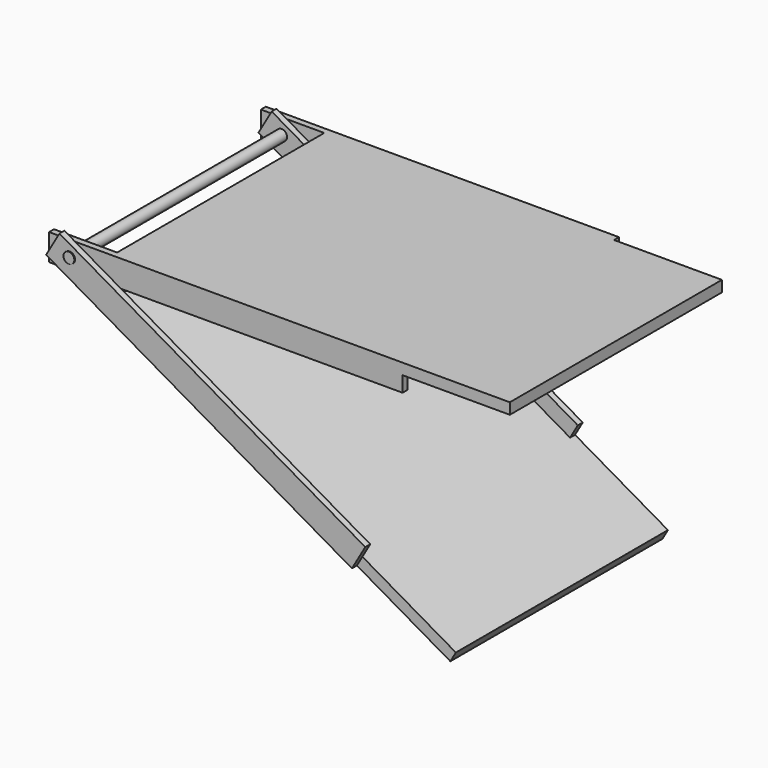
from build123d import *

# Parameters (mm, degrees)
F0_W      = 114.3
F0_H      = 76.2
F1_DEPTH  = 3.175
F2_W      = 101.6
F2_H      = 7.62
F3_DEPTH  = 1.778
F4_W      = 101.5104893595
F4_H      = 7.6689536601
F5_DEPTH  = 1.778
F9_ANGLE  = -180
F10_ANGLE = -30
F12_R     = 1.5586262829
F13_DEPTH = 80.264


with BuildPart() as f1:
    # F0 (on Top) → F1 (new body)
    with BuildSketch(Plane.XY):
        with Locations((57.15, 38.1)):
            Rectangle(F0_W, F0_H)
    extrude(amount=F1_DEPTH)

    # F2 (on face) → F3 (join)
    with BuildSketch(Plane.XZ):
        with Locations((32.6633335471, -0.635)):
            Rectangle(F2_W, F2_H)
    extrude(amount=-F3_DEPTH)

    # F4 (on face) → F5 (join)
    with BuildSketch(Plane(origin=(0, 76.2, 0), x_dir=(-1, 0, 0), z_dir=(0, 1, 0))):
        with Locations((-32.5318602845, -0.6594768301)):
            Rectangle(F4_W, F4_H)
    extrude(amount=F5_DEPTH)


with BuildPart() as f1_1:
    # F6: moved
    add(f1.part)


with BuildPart() as f8_1:
    # F8: copy of F1
    add(f1_1.part.moved(Location((0, -74.422, -60.198))))


with BuildPart() as f8_1_1:
    # F9: moved
    add(f8_1.part.rotate(Axis((32.5318602845, 3.556, -57.023), (1, 0, 0)), F9_ANGLE))


with BuildPart() as f8_1_2:
    # F10: moved
    add(f8_1_1.part.rotate(Axis((0, 42.545, -53.848), (0, -1, 0)), F10_ANGLE))


with BuildPart() as f8_1_3:
    # F11: moved
    add(f8_1_2.part.moved(Location((0, -5.588, 45.974))))


with BuildPart() as f13:
    # F12 (on face) → F13 (new body)
    with BuildSketch(Plane(origin=(0, 77.978, 0), x_dir=(-1, 0, 0), z_dir=(0, 1, 0))):
        with Locations((10.6077073142, 0)):
            Circle(F12_R)
    extrude(amount=-F13_DEPTH)


solid = Compound([f1_1.part, f8_1_3.part, f13.part])
